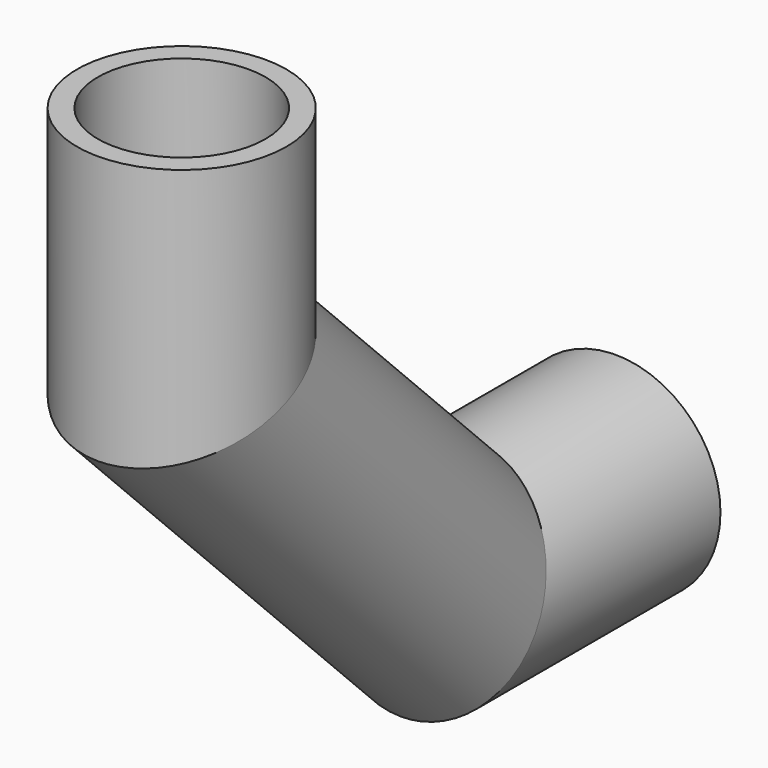
from build123d import *

# Parameters (mm, degrees)
F0_R   = 20
F0_R_2 = 16


with BuildPart() as f2:
    # F2: sweep along a path in F1
    with BuildLine(Plane.YZ) as f2_path:
        Line((0, 0), (0, -42.926))
        Line((0, -42.926), (60.6167288172, -103.5427288172))
        Line((60.6167288172, -103.5427288172), (103.5427288172, -103.5427288172))
    # F0 (on Top) → F2 (sweep)
    with BuildSketch(Plane.XY):
        Circle(F0_R)
        Circle(F0_R_2, mode=Mode.SUBTRACT)
    sweep(path=f2_path.line, transition=Transition.RIGHT)


solid = f2.part
